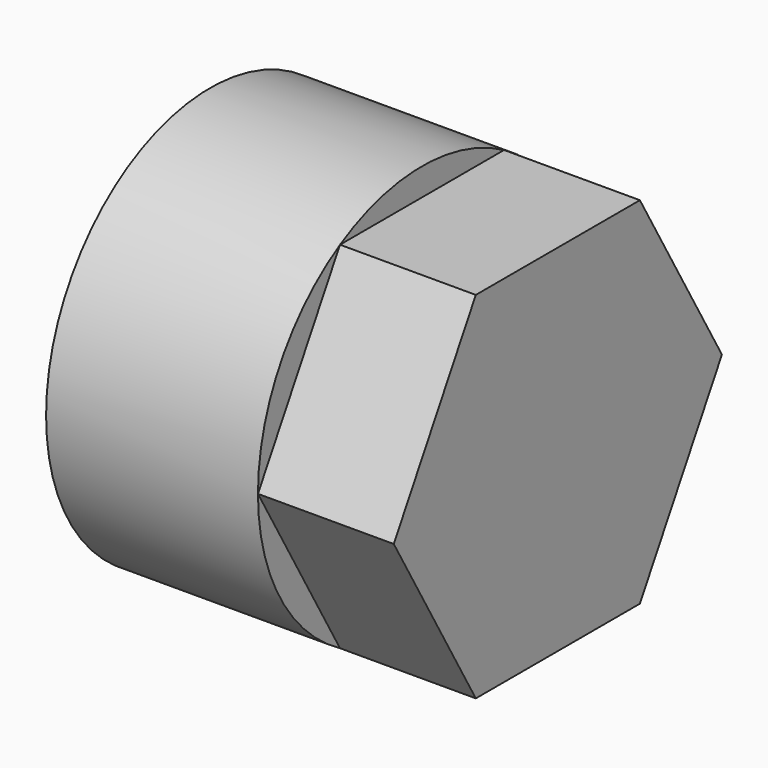
from build123d import *

# Parameters (mm, degrees)
F0_R     = 75.5
F1_DEPTH = 128
F3_DEPTH = 50


with BuildPart() as f1:
    # F0 (on Right) → F1 (new body)
    with BuildSketch(Plane.YZ):
        Circle(F0_R)
    extrude(amount=F1_DEPTH)

    # F2 (on face) → F3 (cut)
    with BuildSketch(Plane.YZ.offset(128)):
        with BuildLine():
            Line((-75.5, 0), (-37.75, 65.384918))
            ThreePointArc((-37.75, 65.384918), (-65.384918, 37.75), (-75.5, 0))
        make_face()
        with BuildLine():
            ThreePointArc((37.75, 65.384918), (0, 75.5), (-37.75, 65.384918))
            Line((-37.75, 65.384918), (37.75, 65.384918))
        make_face()
        with BuildLine():
            ThreePointArc((75.5, 0), (65.384918, 37.75), (37.75, 65.384918))
            Line((37.75, 65.384918), (75.5, 0))
        make_face()
        with BuildLine():
            ThreePointArc((37.75, -65.384918), (65.384918, -37.75), (75.5, 0))
            Line((75.5, 0), (37.75, -65.384918))
        make_face()
        with BuildLine():
            Line((37.75, -65.384918), (-37.75, -65.384918))
            ThreePointArc((-37.75, -65.384918), (0, -75.5), (37.75, -65.384918))
        make_face()
        with BuildLine():
            Line((-37.75, -65.384918), (-75.5, 0))
            ThreePointArc((-75.5, 0), (-65.384918, -37.75), (-37.75, -65.384918))
        make_face()
    extrude(amount=-F3_DEPTH, mode=Mode.SUBTRACT)


with BuildPart() as f1_1:
    # F4: moved
    add(f1.part)


solid = f1_1.part
